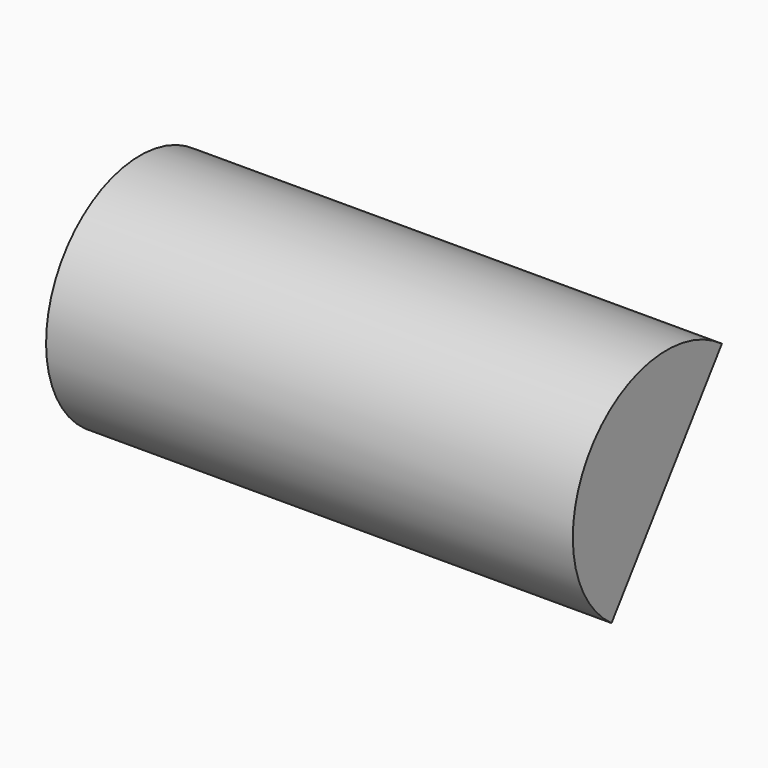
from build123d import *

# Parameters (mm, degrees)
F1_DEPTH = 292.1
F2_W     = 285.75
F2_H     = 61.9125


with BuildPart() as f1:
    # F0 (on Right) → F1 (new body)
    with BuildSketch(Plane.YZ):
        with BuildLine():
            Line((-38.257473, -52.656894), (38.257473, 52.656894))
            ThreePointArc((38.257473, 52.656894), (-52.656894, 38.257473), (-38.257473, -52.656894))
        make_face()
    extrude(amount=F1_DEPTH)

    # F2 (on face) → F3 (revolve, cut)
    with BuildSketch(Plane(origin=(0, 0, 0), x_dir=(-1, 0, 0), z_dir=(0, 0.809017, -0.587785))):
        with Locations((-146.05, -30.95625)):
            Rectangle(F2_W, F2_H)
    revolve(axis=Axis((146.05, 0, 0), (1, 0, 0)), mode=Mode.SUBTRACT)


solid = f1.part
